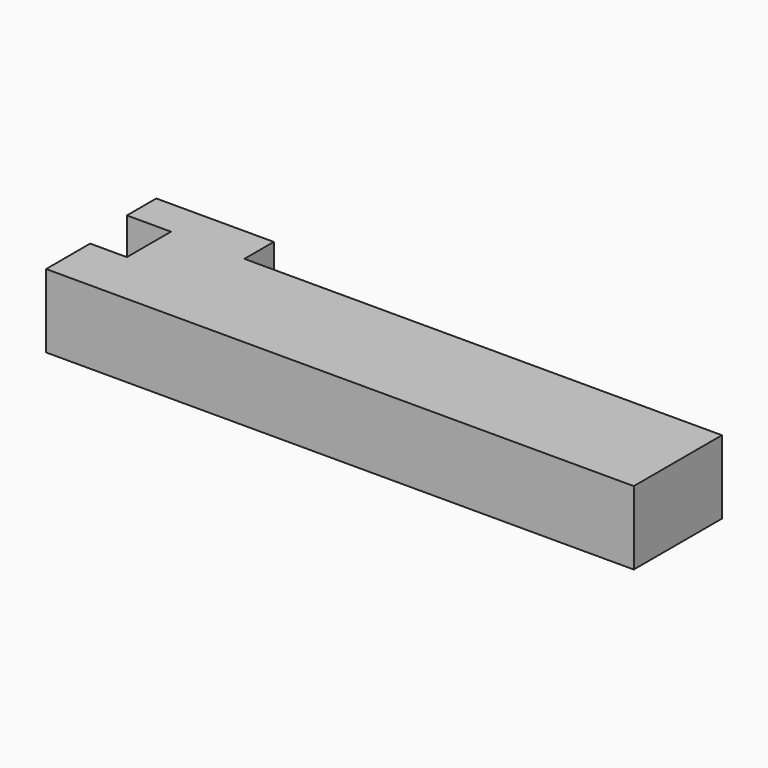
from build123d import *

# Parameters (mm, degrees)
F0_W      = 101.6
F0_H      = 12.7
F1_DEPTH  = 19.05
F2_W      = 6.35
F2_H      = 9.525
F3_DEPTH  = 25.4
F4_R      = 3.175
F6_DEPTH  = 12.7
F7_W      = 20.32
F7_H      = 12.7
F8_DEPTH  = 6.35
F9_R      = 4.7625
F9_R_2    = 3.175
F10_DEPTH = 3.175
F11_DEPTH = 6.35


with BuildPart() as f1:
    # F0 (on Front) → F1 (new body)
    with BuildSketch(Plane.XZ):
        with Locations((50.8, 6.35)):
            Rectangle(F0_W, F0_H)
    extrude(amount=F1_DEPTH)

    # F2 (on face) → F3 (cut)
    with BuildSketch(Plane.XY.offset(12.7)):
        with Locations((3.175, -4.7625)):
            Rectangle(F2_W, F2_H)
    extrude(amount=-F3_DEPTH, mode=Mode.SUBTRACT)

    # F4 (on face) → F6 (cut)
    with BuildSketch(Plane(origin=(0, 0, 0), x_dir=(-1, 0, 0), z_dir=(0, 1, 0))):
        with Locations((-12.7, 6.35)):
            Circle(F4_R)
    extrude(amount=-F6_DEPTH, mode=Mode.SUBTRACT)

    # F7 (on face) → F8 (join)
    with BuildSketch(Plane(origin=(0, 0, 0), x_dir=(-1, 0, 0), z_dir=(0, 1, 0))):
        with Locations((-8.89, 6.35)):
            Rectangle(F7_W, F7_H)
    extrude(amount=F8_DEPTH)

    # F9 (on face) → F10 (cut)
    with BuildSketch(Plane(origin=(0, 6.35, 0), x_dir=(-1, 0, 0), z_dir=(0, 1, 0))):
        with Locations((-12.7, 6.35)):
            Circle(F9_R)
        with Locations((-12.7, 6.35)):
            Circle(F9_R_2, mode=Mode.SUBTRACT)
    extrude(amount=-F10_DEPTH, mode=Mode.SUBTRACT)

    # F11 (cut): a face of the model
    f11_faces = [f1.faces().sort_by_distance(p)[0] for p in [
        (12.7, 6.35, 6.35),
    ]]
    extrude(f11_faces, amount=-F11_DEPTH, mode=Mode.SUBTRACT)


solid = f1.part
